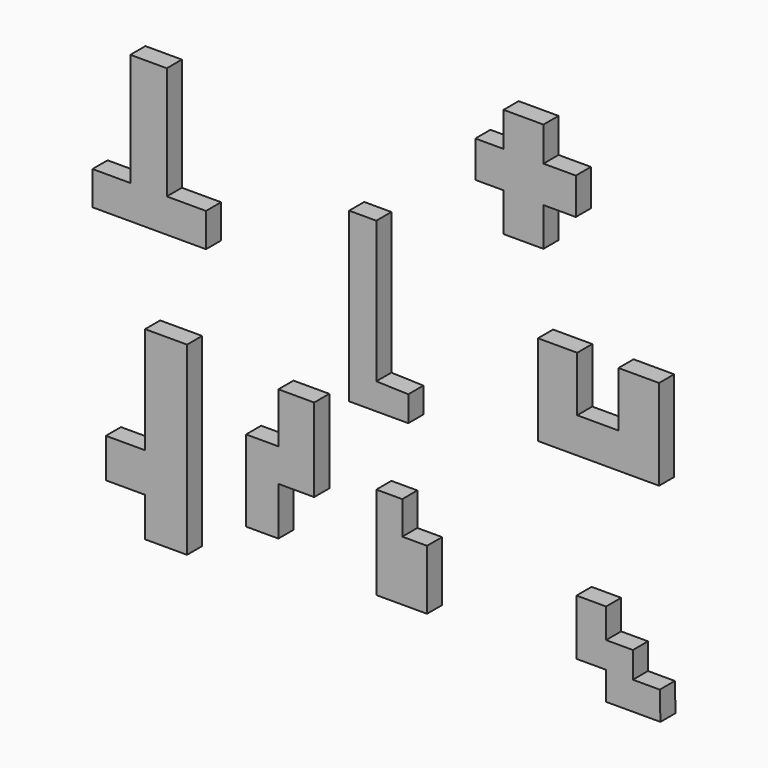
from build123d import *

# Parameters (mm, degrees)
F1_DEPTH  = 5
F3_DEPTH  = 5
F5_DEPTH  = 5
F7_DEPTH  = 5
F9_DEPTH  = 5
F11_DEPTH = 5
F13_DEPTH = 5
F15_DEPTH = 5


with BuildPart() as f1:
    # F0 (on Front) → F1 (new body)
    with BuildSketch(Plane.XZ):
        Polygon((0, 0), (0, 37.460938), (-7.200521, 37.460938), (-7.200521, -7.018229), (8.476563, -7.018229), (8.476563, -0.267681), align=None)
    extrude(amount=F1_DEPTH)


with BuildPart() as f3:
    # F2 (on Front) → F3 (new body)
    with BuildSketch(Plane.XZ):
        Polygon((-55.507816, 54.96094), (-65.169275, 54.96094), (-65.169275, 25.065109), (-75.195312, 25.065109), (-75.195312, 16.132815), (-45.117192, 16.132815), (-45.117192, 25.065109), (-55.507816, 25.065109), align=None)
    extrude(amount=F3_DEPTH)


with BuildPart() as f5:
    # F4 (on Front) → F5 (new body)
    with BuildSketch(Plane.XZ):
        Polygon((74.915372, 0), (74.915372, 23.971355), (64.160161, 23.971355), (64.160161, 9.388021), (53.222653, 9.388021), (53.222653, 23.971355), (42.832039, 23.971355), (42.832039, 0), align=None)
    extrude(amount=F5_DEPTH)


with BuildPart() as f7:
    # F6 (on Front) → F7 (new body)
    with BuildSketch(Plane.XZ):
        Polygon((-61.256509, -46.393231), (-61.256509, -56.783851), (-50.136723, -56.783851), (-50.136723, -46.393231), (-50.136723, -7.747396), (-61.256509, -7.747396), (-61.256509, -36.002606), (-71.647137, -36.002606), (-71.647137, -46.393231), align=None)
    extrude(amount=F7_DEPTH)


with BuildPart() as f9:
    # F8 (on Front) → F9 (new body)
    with BuildSketch(Plane.XZ):
        Polygon((44.290371, 74.283853), (33.717457, 74.283853), (33.717457, 65.169275), (26.243487, 65.169275), (26.243487, 55.507824), (33.717457, 55.507824), (33.717457, 45.299489), (44.290371, 45.299489), (44.290371, 55.507824), (52.858073, 55.507824), (52.858073, 65.169275), (44.290371, 65.169275), align=None)
    extrude(amount=F9_DEPTH)


with BuildPart() as f11:
    # F10 (on Front) → F11 (new body)
    with BuildSketch(Plane.XZ):
        Polygon((60.878906, -54.96094), (75.279951, -54.96094), (75.097665, -47.486983), (67.988284, -47.486983), (67.988284, -40.559899), (60.878906, -40.559899), (60.878906, -32.721356), (53.040367, -32.721356), (53.040367, -47.486983), (60.878906, -47.486983), align=None)
    extrude(amount=F11_DEPTH)


with BuildPart() as f13:
    # F12 (on Front) → F13 (new body)
    with BuildSketch(Plane.XZ):
        Polygon((0, -25.247397), (0, -33.997394), (0, -49.856775), (13.440759, -49.856775), (13.440759, -33.997394), (6.878257, -33.997394), (6.878257, -25.247397), align=None)
    extrude(amount=F13_DEPTH)


with BuildPart() as f15:
    # F14 (on Front) → F15 (new body)
    with BuildSketch(Plane.XZ):
        Polygon((-16.454682, -10.299478), (-25.934575, -10.299478), (-25.934575, -23.606772), (-34.502815, -23.606772), (-34.502815, -45.117188), (-25.934575, -45.117188), (-25.934575, -32.356773), (-16.454682, -32.356773), align=None)
    extrude(amount=F15_DEPTH)


solid = Compound([f1.part, f3.part, f5.part, f7.part, f9.part, f11.part, f13.part, f15.part])
